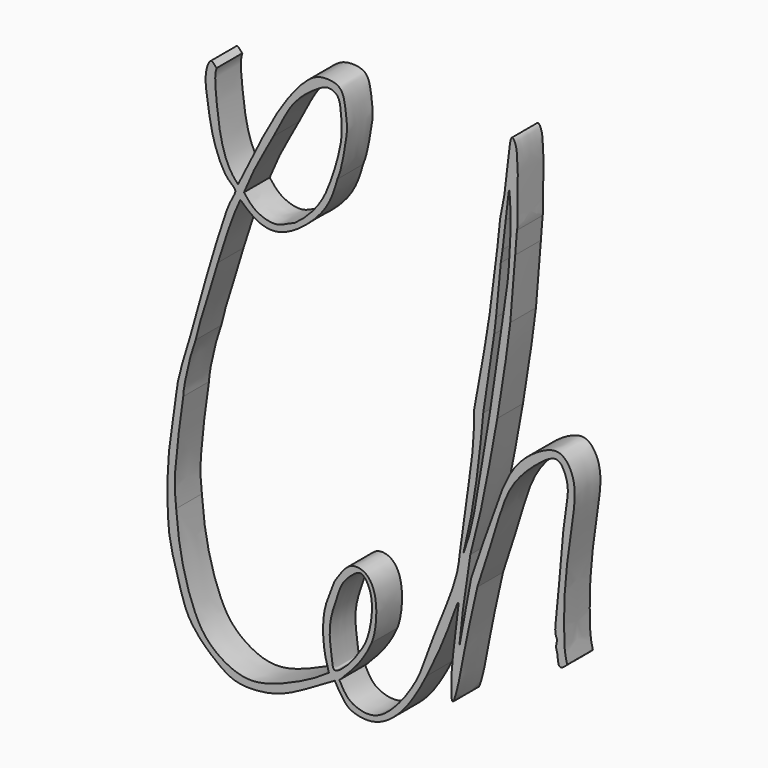
from build123d import *

# Parameters (mm, degrees)
F1_DEPTH = 3.81


with BuildPart() as f1:
    # F0 (on Front) → F1 (new body)
    with BuildSketch(Plane.XZ):
        with BuildLine():
            add(Edge.make_bspline(
                [(-64.3478780985, 36.3942086697), (-64.594307804, 35.6361597874), (-64.400791349, 33.4821396038), (-63.9717350542, 29.0644162753), (-62.9045544452, 26.1712613342), (-61.7970451713, 25.0863395631)],
                knots=[0, 0, 0, 0, 0.2819372558, 0.6413344265, 1, 1, 1, 1], degree=3))
            add(Edge.make_bspline(
                [(-64.3478780985, 36.3942086697), (-64.6320059995, 36.6795237412), (-65.0127257995, 37.3459919173), (-65.8947929566, 35.3893560179), (-65.3187777613, 31.9972202741), (-64.8001157648, 28.6223612832), (-63.2936303158, 25.1950135449), (-61.7926627726, 24.4372817615), (-62.8328742115, 23.0080342921), (-63.9458653061, 19.5554286912), (-65.4235783187, 14.7920282815), (-66.583714503, 10.4416246331), (-67.1881997904, 8.3583401727), (-67.4625188112, 7.4129314162)],
                knots=[0, 0, 0, 0, 0.0502532342, 0.1163333349, 0.2201125068, 0.3254859557, 0.4305540681, 0.4919590331, 0.5548752471, 0.6605300899, 0.7860434758, 0.9032277199, 1, 1, 1, 1], degree=3))
            add(Edge.make_bspline(
                [(-67.4625188112, 7.4129314162), (-67.2521293163, 7.3432646071), (-67.0417398214, 7.273597798), (-66.8313503265, 7.2039309889)],
                knots=[0, 0, 0, 0, 0.6648720438, 0.6648720438, 0.6648720438, 0.6648720438], degree=3))
            add(Edge.make_bspline(
                [(-64.1978010535, 16.1253046244), (-64.5324728527, 14.9995994168), (-64.8484125847, 13.7619106871), (-65.9089727693, 10.7350791412), (-66.617217544, 8.1185222447), (-66.77648699, 7.4424250985), (-66.8313503265, 7.2039309889)],
                knots=[0, 0, 0, 0, 0.270100368, 0.5670446025, 0.8439904748, 1, 1, 1, 1], degree=3))
            add(Edge.make_bspline(
                [(-61.5331530571, 23.5674213618), (-62.1056054669, 22.3487475676), (-63.1341874632, 19.5246021952), (-63.4848672822, 18.388087616), (-64.1978010535, 16.1253046244)],
                knots=[0, 0, 0, 0, 0.4947651399, 1, 1, 1, 1], degree=3))
            add(Edge.make_bspline(
                [(-61.5331530571, 23.5674213618), (-61.0936272228, 23.1742903137), (-60.2570745132, 22.4262119863), (-58.9346570286, 21.6798572949), (-56.987795824, 21.4405136475), (-54.2780387893, 22.8376285652), (-51.1858957421, 25.7867104282), (-50.3705419789, 28.159327285), (-50.0189401209, 29.4617917389)],
                knots=[0, 0, 0, 0, 0.1364431884, 0.2629611729, 0.4028507666, 0.5823489266, 0.7956912827, 1, 1, 1, 1], degree=3))
            add(Edge.make_bspline(
                [(-54.4542185962, 37.7857945859), (-53.8810741394, 38.3544193128), (-52.7990255125, 39.4278120611), (-51.0065997074, 39.6129848626), (-49.3328611001, 39.1920750765), (-49.026521841, 36.8136532442), (-48.7784919575, 35.0489375762), (-49.1872303725, 32.7248985087), (-49.5792357484, 30.4948519768), (-50.0189401209, 29.4617917389)],
                knots=[0, 0, 0, 0, 0.1483087222, 0.276406463, 0.3946334079, 0.5381662418, 0.670510175, 0.8193014425, 1, 1, 1, 1], degree=3))
            add(Edge.make_bspline(
                [(-61.7970451713, 25.0863395631), (-61.1651801166, 26.3641587506), (-59.7534768676, 29.2781987714), (-57.083273408, 34.4325605058), (-55.3603843586, 36.755385889), (-54.4542185962, 37.7857945859)],
                knots=[0, 0, 0, 0, 0.3254838774, 0.689395398, 1, 1, 1, 1], degree=3))
        make_face()
        with BuildLine():
            add(Edge.make_bspline(
                [(-61.0953681171, 24.4789980352), (-60.6633949552, 23.9087284968), (-59.7943542922, 22.8376068592), (-57.1155977853, 22.0203317833), (-55.8776186039, 22.9787261338), (-55.1344752312, 23.2027471066)],
                knots=[0, 0, 0, 0, 0.3202240511, 0.6685316218, 1, 1, 1, 1], degree=3))
            add(Edge.make_bspline(
                [(-61.0953681171, 24.4789980352), (-60.636276252, 25.5711854242), (-59.7670302746, 27.639136452), (-58.3301119549, 30.0899224517), (-57.8223702744, 31.0488167864), (-57.6085858047, 31.4525589347)],
                knots=[0, 0, 0, 0, 0.3932142247, 0.7445130464, 1, 1, 1, 1], degree=3))
            add(Edge.make_bspline(
                [(-57.6085858047, 31.4525589347), (-57.2361722737, 32.1636172317), (-56.5074906813, 33.554906884), (-55.4610191982, 35.4991471558), (-53.8585304478, 37.1601489801), (-51.9258472934, 38.4629226613), (-51.0110822907, 38.7346754998), (-49.8658280907, 38.309222353), (-49.5931361536, 36.8363743612), (-49.4660104849, 35.1291867567), (-49.5599824716, 33.1061159085), (-50.0758544097, 31.3434336673), (-50.356939435, 30.3829945624)],
                knots=[0, 0, 0, 0, 0.1132109331, 0.2215137639, 0.3344037173, 0.4452147559, 0.5151228855, 0.5890171491, 0.6752972993, 0.7718618212, 0.875693518, 1, 1, 1, 1], degree=3))
            add(Edge.make_bspline(
                [(-55.1344752312, 23.2027471066), (-54.3696681367, 23.7338618084), (-52.8794509248, 25.0805380667), (-51.3270056763, 27.4127575111), (-50.6833110455, 29.4035094621), (-50.356939435, 30.3829945624)],
                knots=[0, 0, 0, 0, 0.3311329052, 0.6567589964, 1, 1, 1, 1], degree=3))
        make_face(mode=Mode.SUBTRACT)
        with BuildLine():
            add(Edge.make_bspline(
                [(-67.4625188112, 7.4129314162), (-67.2521293163, 7.3432646071), (-67.0417398214, 7.273597798), (-66.8313503265, 7.2039309889)],
                knots=[0, 0, 0, 0, 0.6648720438, 0.6648720438, 0.6648720438, 0.6648720438], degree=3))
            add(Edge.make_bspline(
                [(-67.4625188112, 7.4129314162), (-67.7519003166, 6.482873804), (-68.3183404551, 4.6623636717), (-69.0145944421, 1.9829002999), (-69.1016041442, 1.1492915518), (-69.1354423761, 0.8250995888)],
                knots=[0, 0, 0, 0, 0.3896030928, 0.7626155292, 1, 1, 1, 1], degree=3))
            add(Edge.make_bspline(
                [(-69.1354423761, 0.8250995888), (-69.3447849992, -0.6062991578), (-69.7425349717, -3.3259498607), (-70.1613025022, -6.6357345447), (-70.1648089137, -10.0462788671), (-70.1374308963, -11.4838290745), (-70.1254606247, -12.1123576537)],
                knots=[0, 0, 0, 0, 0.2867273944, 0.544780664, 0.8009680907, 1, 1, 1, 1], degree=3))
            add(Edge.make_bspline(
                [(-70.1254606247, -12.1123576537), (-70.0836690836, -12.8972320759), (-69.9669228297, -14.841106019), (-68.7396743988, -18.9633518267), (-67.9089302824, -21.9074121336), (-66.0317113513, -24.2144018254), (-64.1680133421, -25.7541220503), (-62.0362565738, -27.260388626), (-58.0304727121, -26.9840255391), (-55.1566973124, -25.8863991997), (-52.0517121769, -24.0043093405), (-50.3294877708, -23.00398238)],
                knots=[0, 0, 0, 0, 0.0998762184, 0.2266434029, 0.33443701, 0.4374634594, 0.5320486191, 0.6286185454, 0.7468295841, 0.8551140456, 1, 1, 1, 1], degree=3))
            add(Edge.make_bspline(
                [(-51.0259754956, -22.3989449441), (-50.8242969712, -22.6006240894), (-50.5311662952, -22.8023032347), (-50.3294877708, -23.00398238)],
                knots=[0, 0, 0, 0, 0.922586283, 0.922586283, 0.922586283, 0.922586283], degree=3))
            add(Edge.make_bspline(
                [(-69.1354423761, -11.1612370238), (-69.0288758035, -12.3978268567), (-68.8096980292, -14.806224757), (-68.0228268444, -18.256060123), (-67.1181117661, -20.893945406), (-65.7756668258, -23.6566015678), (-63.0085285259, -25.7090830728), (-59.8760118451, -26.5533106873), (-55.500837017, -24.990138687), (-52.4687933434, -23.4510002418), (-51.0259754956, -22.3989449441)],
                knots=[0, 0, 0, 0, 0.1266828092, 0.2499495394, 0.3598694269, 0.4738659843, 0.5939367033, 0.7093270119, 0.8486286811, 1, 1, 1, 1], degree=3))
            add(Edge.make_bspline(
                [(-68.2959705591, 0.8250995888), (-68.4357954781, -0.1118544547), (-68.7220698897, -2.0750083677), (-69.112039872, -5.5342894159), (-69.3890523887, -8.5636147148), (-69.2431156686, -10.3142683153), (-69.1354423761, -11.1612370238)],
                knots=[0, 0, 0, 0, 0.2466028264, 0.5165406927, 0.7686179546, 1, 1, 1, 1], degree=3))
            add(Edge.make_bspline(
                [(-66.8313503265, 7.2039309889), (-67.0354072467, 6.616508075), (-67.5004792585, 5.2776955705), (-68.2368262202, 1.8931465842), (-68.2805411188, 1.1037292547), (-68.2959705591, 0.8250995888)],
                knots=[0, 0, 0, 0, 0.3359220506, 0.7656096335, 1, 1, 1, 1], degree=3))
        make_face()
        with BuildLine():
            add(Edge.make_bspline(
                [(-51.0259754956, -22.3989449441), (-50.8242969712, -22.6006240894), (-50.5311662952, -22.8023032347), (-50.3294877708, -23.00398238)],
                knots=[0, 0, 0, 0, 0.922586283, 0.922586283, 0.922586283, 0.922586283], degree=3))
            add(Edge.make_bspline(
                [(-49.7861963122, -22.7424073964), (-49.9647715894, -22.8589315669), (-50.1722539994, -22.9175488902), (-50.3294877708, -23.00398238)],
                knots=[0.8659705128, 0.8659705128, 0.8659705128, 0.8659705128, 1, 1, 1, 1], degree=3))
            add(Edge.make_bspline(
                [(-45.9460131824, -17.6158677787), (-46.2195871907, -18.2806240678), (-46.8839078839, -19.4340838749), (-48.0023239662, -20.9855251311), (-49.1657893104, -22.077707927), (-49.5720732487, -22.6026875386), (-49.7861963122, -22.7424073964)],
                knots=[0, 0, 0, 0, 0.2479081885, 0.4875910253, 0.7052606718, 0.8659705128, 0.8659705128, 0.8659705128, 0.8659705128], degree=3))
            add(Edge.make_bspline(
                [(-50.3405630589, -12.6011148095), (-50.0569483823, -12.1702430428), (-49.4966419321, -11.3189822337), (-48.4562928957, -10.1913649733), (-47.0614994833, -10.2960364247), (-46.1511420395, -10.9983053899), (-45.5361208832, -12.2846803505), (-45.3398908992, -14.176562738), (-45.4999231372, -16.0928947996), (-45.769448576, -17.1674499593), (-45.9460131824, -17.6158677787)],
                knots=[0, 0, 0, 0, 0.1275067926, 0.2499802778, 0.3636373748, 0.4700018853, 0.589364956, 0.7302681309, 0.8728325736, 1, 1, 1, 1], degree=3))
            add(Edge.make_bspline(
                [(-51.0259754956, -22.3989449441), (-51.2732430997, -21.6821429956), (-51.7584642425, -19.6854684743), (-51.7448701774, -16.4129251353), (-51.0796211944, -14.4020858114), (-50.5180811431, -13.1542631619), (-50.3405630589, -12.6011148095)],
                knots=[0, 0, 0, 0, 0.26336992, 0.5510302946, 0.7822896136, 1, 1, 1, 1], degree=3))
        make_face()
        with BuildLine():
            add(Edge.make_bspline(
                [(-50.3261387348, -21.9153854996), (-50.574043909, -21.8666477261), (-50.6317392977, -20.6441525726), (-51.2467329225, -17.5602834807), (-50.0350799685, -14.1451784999), (-49.4445846867, -12.2790819697), (-47.7654066815, -10.8051727071), (-46.9548511416, -10.7312588172), (-45.9831646266, -12.2026830662), (-45.8088345894, -14.6496113862), (-46.4338565243, -17.649569384), (-47.4633888677, -19.1436106118), (-48.4184089654, -20.5947605952), (-49.9778749565, -21.9838536193), (-50.3261387348, -21.9153854996)],
                knots=[0, 0, 0, 0, 0.0603885604, 0.1667134467, 0.2769623757, 0.3603060497, 0.4439661008, 0.4905425319, 0.5621122018, 0.6552685053, 0.7568925647, 0.8338526345, 0.9151645452, 1, 1, 1, 1], degree=3))
        make_face(mode=Mode.SUBTRACT)
        with BuildLine():
            add(Edge.make_bspline(
                [(-49.7861963122, -22.7424073964), (-49.9647715894, -22.8589315669), (-50.1722539994, -22.9175488902), (-50.3294877708, -23.00398238)],
                knots=[0.8659705128, 0.8659705128, 0.8659705128, 0.8659705128, 1, 1, 1, 1], degree=3))
            add(Edge.make_bspline(
                [(-50.3294877708, -23.00398238), (-50.0785347862, -23.5111490779), (-49.5026249253, -24.3943965295), (-48.6056809505, -25.624469057), (-45.8948718444, -26.1391738259), (-43.3835822615, -24.8167364172), (-41.2806673655, -22.3933814185), (-39.782153947, -19.6684168222), (-39.5428479762, -19.1549813605), (-39.4612103701, -18.9942047)],
                knots=[0, 0, 0, 0, 0.1258660331, 0.2446215822, 0.4011667465, 0.564799027, 0.7464723686, 0.9189296265, 1, 1, 1, 1], degree=3))
            add(Edge.make_bspline(
                [(-40.2477693169, -18.9942047), (-39.9625523993, -18.9942047), (-39.7464272877, -18.9942047), (-39.4612103701, -18.9942047)],
                knots=[0, 0, 0, 0, 0.7865589468, 0.7865589468, 0.7865589468, 0.7865589468], degree=3))
            add(Edge.make_bspline(
                [(-49.7861963122, -22.7424073964), (-49.4935559226, -23.2882715265), (-48.9368560246, -24.3412855504), (-47.5605296025, -25.1200476569), (-45.26044659, -25.4216010729), (-42.7679241925, -23.093776951), (-41.2671517821, -20.9415769804), (-40.5001112722, -19.5826256985), (-40.2477693169, -18.9942047)],
                knots=[0, 0, 0, 0, 0.1494486667, 0.2866856739, 0.4491167706, 0.6511458318, 0.8367648393, 1, 1, 1, 1], degree=3))
        make_face()
        with BuildLine():
            add(Edge.make_bspline(
                [(-40.2477693169, -18.9942047), (-39.9625523993, -18.9942047), (-39.7464272877, -18.9942047), (-39.4612103701, -18.9942047)],
                knots=[0, 0, 0, 0, 0.7865589468, 0.7865589468, 0.7865589468, 0.7865589468], degree=3))
            add(Edge.make_bspline(
                [(-39.4612103701, -18.9942047), (-38.6324707477, -17.3072120188), (-37.1503382612, -14.2901646981), (-35.4199872862, -8.8475830281), (-35.9002044466, -12.1408139187), (-36.1853380057, -14.8335135093), (-36.598394964, -18.1984772701), (-36.4491695847, -21.9318161234), (-35.3529009846, -17.2799519503), (-34.88322219, -14.2386369805), (-33.9553649825, -10.1054920247), (-33.4231592715, -7.7347788028)],
                knots=[0, 0, 0, 0, 0.1435878126, 0.2567949643, 0.3326348873, 0.4358879774, 0.5510035136, 0.6346903741, 0.7359294842, 0.8485329041, 1, 1, 1, 1], degree=3))
            add(Edge.make_bspline(
                [(-33.4231592715, -7.7347788028), (-33.6629971862, -7.4949407329), (-33.9037332825, -7.257652754), (-34.1435711972, -7.0178146841)],
                knots=[0, 0, 0, 0, 1.0163812721, 1.0163812721, 1.0163812721, 1.0163812721], degree=3))
            add(Edge.make_bspline(
                [(-34.2505984008, -4.6048914082), (-34.4486762806, -5.9059093448), (-34.8445374323, -8.5059843362), (-35.2902134549, -11.8134024861), (-35.7354579987, -16.0490341495), (-34.8945038755, -10.8695808226), (-34.4077920836, -8.3720439804), (-34.1435711972, -7.0178146841)],
                knots=[0, 0, 0, 0, 0.2103535384, 0.4204370159, 0.5825795664, 0.7738419024, 1, 1, 1, 1], degree=3))
            add(Edge.make_bspline(
                [(-35.0900329649, -4.820745904), (-34.8102214436, -4.7487944054), (-34.5304099222, -4.6768429068), (-34.2505984008, -4.6048914082)],
                knots=[0.4333715354, 0.4333715354, 0.4333715354, 0.4333715354, 1.3001146062, 1.3001146062, 1.3001146062, 1.3001146062], degree=3))
            add(Edge.make_bspline(
                [(-35.509750247, -4.9286731519), (-35.3698444863, -4.8926974026), (-35.2299387256, -4.8567216533), (-35.0900329649, -4.820745904)],
                knots=[0, 0, 0, 0, 0.4333715354, 0.4333715354, 0.4333715354, 0.4333715354], degree=3))
            add(Edge.make_bspline(
                [(-40.2477693169, -18.9942047), (-39.7007722544, -17.4672662716), (-38.5291060689, -14.1965684079), (-35.8239604276, -7.8788772654), (-35.5983754768, -5.7607993325), (-35.509750247, -4.9286731519)],
                knots=[0, 0, 0, 0, 0.3471050869, 0.7434981301, 1, 1, 1, 1], degree=3))
        make_face()
        with BuildLine():
            add(Edge.make_bspline(
                [(-33.4231592715, -7.7347788028), (-33.6629971862, -7.4949407329), (-33.9037332825, -7.257652754), (-34.1435711972, -7.0178146841)],
                knots=[0, 0, 0, 0, 1.0163812721, 1.0163812721, 1.0163812721, 1.0163812721], degree=3))
            add(Edge.make_bspline(
                [(-33.4231592715, -7.7347788028), (-32.6824887566, -5.4671271356), (-31.2719952581, -1.1487301902), (-29.8025857556, 4.1197682282), (-26.6095795381, 7.3167118415), (-23.9975157377, 9.1592648182), (-23.0043156977, 7.6487076478), (-22.4973176176, 5.8376103591), (-23.1467656026, 2.7499605125), (-23.4667267089, -1.2782829163), (-23.8733883009, -5.9067838792), (-24.0565820383, -7.9679602031), (-24.2954665787, -9.5828023041), (-23.946184665, -10.1416548714)],
                knots=[0, 0, 0, 0, 0.1319641816, 0.2475142221, 0.354143822, 0.434541884, 0.4912615583, 0.5589835695, 0.6458460122, 0.7487003313, 0.8553299303, 0.928666477, 1, 1, 1, 1], degree=3))
            add(Edge.make_bspline(
                [(-23.946184665, -10.1416548714), (-24.1889864407, -11.1264007303), (-23.8560265654, -11.1712282739), (-23.906554527, -13.3493606218), (-23.0800972245, -12.7001677657), (-22.7661933056, -12.3798248284)],
                knots=[0, 0, 0, 0, 0.3541058493, 0.6991492151, 1, 1, 1, 1], degree=3))
            add(Edge.make_bspline(
                [(-34.1435711972, -7.0178146841), (-32.8690518541, -3.053384691), (-31.8198857536, -0.8167033924), (-29.7688975948, 6.1886702993), (-25.9080842198, 9.1322397517), (-23.5477715674, 9.7819754292), (-22.1407442201, 8.0614350184), (-21.6952931469, 5.5830895847), (-22.3309785838, 1.6929106171), (-23.1263585003, -4.2527093452), (-23.1492815114, -8.6813214464), (-23.1174925844, -11.1264007303), (-22.7661933056, -12.3798248284)],
                knots=[0, 0, 0, 0, 0.134637629, 0.2594216861, 0.3668902169, 0.437605246, 0.5046355021, 0.5812643226, 0.6794312249, 0.8013222245, 0.9054880843, 1, 1, 1, 1], degree=3))
        make_face()
        with BuildLine():
            add(Edge.make_bspline(
                [(-35.509750247, -4.9286731519), (-35.2199401716, -2.7542428179), (-34.6659350321, 1.4024297157), (-33.8263298026, 6.7721275684), (-33.8156039245, 9.4134473985), (-33.8107272983, 10.6143495068)],
                knots=[0, 0, 0, 0, 0.3743013872, 0.7155199553, 1, 1, 1, 1], degree=3))
            add(Edge.make_bspline(
                [(-35.509750247, -4.9286731519), (-35.3698444863, -4.8926974026), (-35.2299387256, -4.8567216533), (-35.0900329649, -4.820745904)],
                knots=[0, 0, 0, 0, 0.4333715354, 0.4333715354, 0.4333715354, 0.4333715354], degree=3))
            add(Edge.make_bspline(
                [(-35.0900329649, -4.820745904), (-34.7651897264, -3.4211437047), (-34.1175262114, -0.6306553321), (-33.4908437849, 3.4676119441), (-32.9844674112, 7.8144108569), (-32.8027371883, 9.7924022815), (-32.7216610312, 10.6748528779)],
                knots=[0, 0, 0, 0, 0.2621099824, 0.5225876743, 0.7870097988, 1, 1, 1, 1], degree=3))
            add(Edge.make_bspline(
                [(-32.7216610312, 10.6748528779), (-32.2882334391, 13.5624936471), (-31.854805847, 16.4501344164), (-31.4213782549, 19.3377751857)],
                knots=[0, 0, 0, 0, 8.7599633681, 8.7599633681, 8.7599633681, 8.7599633681], degree=3))
            add(Edge.make_bspline(
                [(-31.4213782549, 19.3377751857), (-31.3497601698, 19.9428120007), (-31.2781420847, 20.5478488157), (-31.2065239996, 21.1528856307)],
                knots=[0, 0, 0, 0, 1.827782339, 1.827782339, 1.827782339, 1.827782339], degree=3))
            add(Edge.make_bspline(
                [(-31.9653637707, 21.243641153), (-31.7124171803, 21.2133893122), (-31.45947059, 21.1831374715), (-31.2065239996, 21.1528856307)],
                knots=[0, 0, 0, 0, 0.7642475797, 0.7642475797, 0.7642475797, 0.7642475797], degree=3))
            add(Edge.make_bspline(
                [(-33.8107272983, 10.6143495068), (-33.3115336944, 13.3134704137), (-32.4804229343, 17.8072548112), (-32.1123567796, 20.2629290254), (-31.9653637707, 21.243641153)],
                knots=[0, 0, 0, 0, 0.6006342691, 1, 1, 1, 1], degree=3))
        make_face()
        with BuildLine():
            add(Edge.make_bspline(
                [(-35.0900329649, -4.820745904), (-34.8116684622, -4.0431608393), (-34.1369248427, -2.158327982), (-33.182159287, 3.2501605066), (-32.4797197153, 7.8197082603), (-32.1217091778, 9.8491064776), (-31.9653637707, 10.7353571802)],
                knots=[0, 0, 0, 0, 0.2099487705, 0.508906818, 0.7855365823, 1, 1, 1, 1], degree=3))
            add(Edge.make_bspline(
                [(-35.0900329649, -4.820745904), (-34.8102214436, -4.7487944054), (-34.5304099222, -4.6768429068), (-34.2505984008, -4.6048914082)],
                knots=[0.4333715354, 0.4333715354, 0.4333715354, 0.4333715354, 1.3001146062, 1.3001146062, 1.3001146062, 1.3001146062], degree=3))
            add(Edge.make_bspline(
                [(-34.2505984008, -4.6048914082), (-33.8272340245, -2.9699475549), (-32.9688342983, 0.3450109876), (-31.9564792963, 5.6504497353), (-31.3542446683, 8.997227442), (-31.0578085482, 10.644601658)],
                knots=[0, 0, 0, 0, 0.3307234608, 0.6705640438, 1, 1, 1, 1], degree=3))
            add(Edge.make_bspline(
                [(-31.0578085482, 10.644601658), (-30.6040966791, 13.4934129997), (-29.8725478091, 18.086735017), (-29.613787567, 20.3089169213), (-29.5155122876, 21.1528856307)],
                knots=[0, 0, 0, 0, 0.6202071901, 1, 1, 1, 1], degree=3))
            add(Edge.make_bspline(
                [(-30.4230675101, 21.1528856307), (-30.1205491026, 21.1528856307), (-29.8180306951, 21.1528856307), (-29.5155122876, 21.1528856307)],
                knots=[0, 0, 0, 0, 0.9075552225, 0.9075552225, 0.9075552225, 0.9075552225], degree=3))
            add(Edge.make_bspline(
                [(-31.9653637707, 10.7353571802), (-31.5478618554, 13.5474379389), (-30.8726819467, 18.0951067283), (-30.5472619298, 20.3082528844), (-30.4230675101, 21.1528856307)],
                knots=[0, 0, 0, 0, 0.6183565446, 1, 1, 1, 1], degree=3))
        make_face()
        with BuildLine():
            add(Edge.make_bspline(
                [(-31.9653637707, 21.243641153), (-31.7934125417, 22.6597610339), (-31.472072404, 25.3061867668), (-31.1855179708, 27.4460544143), (-31.0523007065, 28.4408647567)],
                knots=[0, 0, 0, 0, 0.5351066018, 1, 1, 1, 1], degree=3))
            add(Edge.make_bspline(
                [(-31.9653637707, 21.243641153), (-31.7124171803, 21.2133893122), (-31.45947059, 21.1831374715), (-31.2065239996, 21.1528856307)],
                knots=[0, 0, 0, 0, 0.7642475797, 0.7642475797, 0.7642475797, 0.7642475797], degree=3))
            add(Edge.make_bspline(
                [(-31.2065239996, 21.1528856307), (-31.0172097137, 23.1145278861), (-30.8278954277, 25.0761701415), (-30.6385811418, 27.0378123969)],
                knots=[0, 0, 0, 0, 5.9122687805, 5.9122687805, 5.9122687805, 5.9122687805], degree=3))
            add(Edge.make_bspline(
                [(-30.6385811418, 27.0378123969), (-30.5667432646, 27.5174888472), (-30.4949053874, 27.9971652975), (-30.4230675101, 28.4768417478)],
                knots=[0, 0, 0, 0, 1.4550778667, 1.4550778667, 1.4550778667, 1.4550778667], degree=3))
            add(Edge.make_bspline(
                [(-30.4230675101, 28.4768417478), (-30.6328119089, 28.4648494174), (-30.8425563077, 28.4528570871), (-31.0523007065, 28.4408647567)],
                knots=[0, 0, 0, 0, 0.6302608661, 0.6302608661, 0.6302608661, 0.6302608661], degree=3))
        make_face()
        with BuildLine():
            add(Edge.make_bspline(
                [(-30.4230675101, 21.1528856307), (-30.1793322233, 22.7163784642), (-29.7313356556, 25.5901495637), (-29.6255352649, 27.8199395729), (-29.5772962272, 28.8365986198)],
                knots=[0, 0, 0, 0, 0.5440561476, 1, 1, 1, 1], degree=3))
            add(Edge.make_bspline(
                [(-30.4230675101, 21.1528856307), (-30.1205491026, 21.1528856307), (-29.8180306951, 21.1528856307), (-29.5155122876, 21.1528856307)],
                knots=[0, 0, 0, 0, 0.9075552225, 0.9075552225, 0.9075552225, 0.9075552225], degree=3))
            add(Edge.make_bspline(
                [(-29.5155122876, 21.1528856307), (-29.3822133656, 22.6471372429), (-29.1383574066, 25.3807089349), (-28.9948132518, 27.4491379057), (-28.9297346026, 28.3869020641)],
                knots=[0, 0, 0, 0, 0.5466297506, 1, 1, 1, 1], degree=3))
            add(Edge.make_bspline(
                [(-29.5772962272, 28.8365986198), (-29.3614423523, 28.6866997679), (-29.1455884775, 28.536800916), (-28.9297346026, 28.3869020641)],
                knots=[0, 0, 0, 0, 0.7883927003, 0.7883927003, 0.7883927003, 0.7883927003], degree=3))
        make_face()
        with BuildLine():
            add(Edge.make_bspline(
                [(-31.0523007065, 28.4408647567), (-30.931176529, 29.5025443895), (-30.7569651537, 31.0295448016), (-30.724571326, 31.4819775873), (-30.7146999985, 31.6198468208)],
                knots=[0, 0, 0, 0, 0.6952713466, 1, 1, 1, 1], degree=3))
            add(Edge.make_bspline(
                [(-30.4230675101, 28.4768417478), (-30.6328119089, 28.4648494174), (-30.8425563077, 28.4528570871), (-31.0523007065, 28.4408647567)],
                knots=[0, 0, 0, 0, 0.6302608661, 0.6302608661, 0.6302608661, 0.6302608661], degree=3))
            add(Edge.make_bspline(
                [(-30.4230675101, 28.4768417478), (-30.3241875573, 29.3567741777), (-30.1666441638, 30.7587524058), (-30.0905867238, 31.4017926093), (-30.0622656941, 31.6412374377)],
                knots=[0, 0, 0, 0, 0.6276363016, 1, 1, 1, 1], degree=3))
            add(Edge.make_bspline(
                [(-30.0622656941, 31.6412374377), (-29.8989968346, 33.2664393507), (-29.6460214188, 35.7845933387), (-29.5024766233, 33.6615947707), (-29.4980581935, 32.4005754491), (-29.4953975827, 31.6412374377)],
                knots=[0, 0, 0, 0, 0.41997984, 0.6507338568, 1, 1, 1, 1], degree=3))
            add(Edge.make_bspline(
                [(-29.5772962272, 28.8365986198), (-29.5425634453, 29.4107857097), (-29.4787830444, 30.4651752739), (-29.4901985837, 31.2732256491), (-29.4953975827, 31.6412374377)],
                knots=[0, 0, 0, 0, 0.5445682596, 1, 1, 1, 1], degree=3))
            add(Edge.make_bspline(
                [(-29.5772962272, 28.8365986198), (-29.3614423523, 28.6866997679), (-29.1455884775, 28.536800916), (-28.9297346026, 28.3869020641)],
                knots=[0, 0, 0, 0, 0.7883927003, 0.7883927003, 0.7883927003, 0.7883927003], degree=3))
            add(Edge.make_bspline(
                [(-28.9297346026, 28.3869020641), (-28.8615934551, 29.2720285555), (-28.7934523076, 30.1571550469), (-28.7253111601, 31.0422815382)],
                knots=[0, 0, 0, 0, 2.6632365827, 2.6632365827, 2.6632365827, 2.6632365827], degree=3))
            add(Edge.make_bspline(
                [(-30.7146999985, 31.6198468208), (-30.4840953653, 32.7183674278), (-29.9864134922, 35.0888352114), (-29.6472019893, 39.9485200649), (-29.2975211022, 40.6920974613), (-28.7981095863, 40.0421438087), (-28.6056285359, 37.9810262891), (-28.6234890716, 35.1491666095), (-28.7015118254, 32.5107825128), (-28.6389598602, 31.3254117804), (-28.7253111601, 31.0422815382)],
                knots=[0, 0, 0, 0, 0.1688614151, 0.3596774585, 0.4187365993, 0.4812476539, 0.605749674, 0.755979257, 0.8996253308, 1, 1, 1, 1], degree=3))
        make_face()
    extrude(amount=F1_DEPTH)


solid = f1.part
